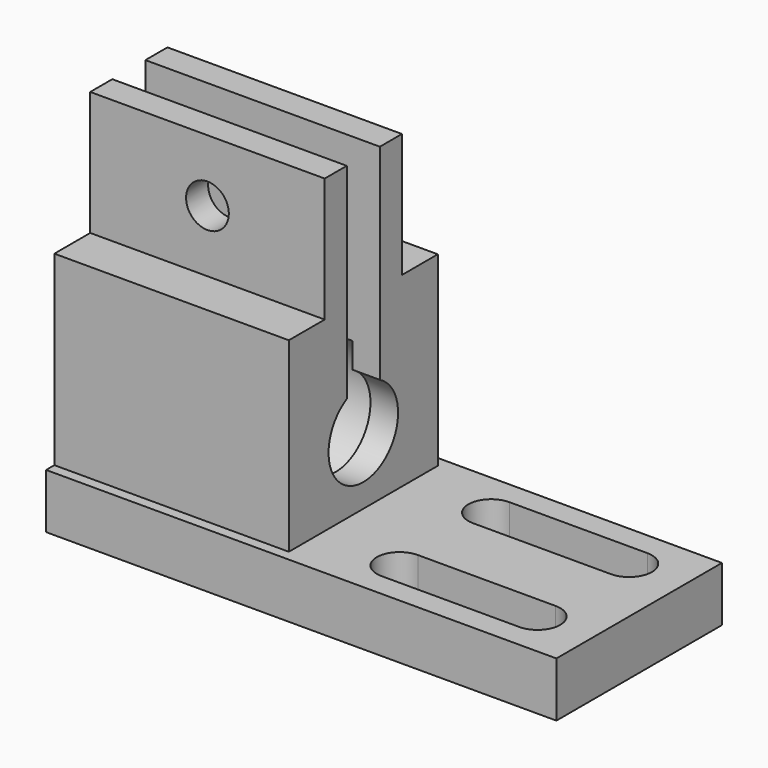
from build123d import *

# Parameters (mm, degrees)
F0_W      = 37
F0_H      = 15
F1_DEPTH  = 3.97
F2_W      = 17
F2_H      = 13.5
F3_DEPTH  = 13.5
F4_R      = 4.85
F5_DEPTH  = 15
F6_R      = 3.15
F7_DEPTH  = 22.001
F8_W      = 17
F8_H      = 7
F9_DEPTH  = 9
F10_R     = 1.55
F11_DEPTH = 11.001
F12_W     = 17
F12_H     = 3
F13_DEPTH = 17.5
F15_DEPTH = 3.971


with BuildPart() as f1:
    # F0 (on Top) → F1 (new body)
    with BuildSketch(Plane.XY):
        Rectangle(F0_W, F0_H)
    extrude(amount=F1_DEPTH)

    # F2 (on face) → F3 (join)
    with BuildSketch(Plane.XY.offset(3.97)):
        with Locations((-10, 0)):
            Rectangle(F2_W, F2_H)
    extrude(amount=F3_DEPTH)

    # F4 (on face) → F5 (cut)
    with BuildSketch(Plane(origin=(-18.5, 0, 0), x_dir=(0, -1, 0), z_dir=(-1, 0, 0))):
        with Locations((0, 8.82)):
            Circle(F4_R)
    extrude(amount=-F5_DEPTH, mode=Mode.SUBTRACT)

    # F6 (on face) → F7 (cut, through all)
    with BuildSketch(Plane(origin=(-3.5, 0, 0), x_dir=(0, -1, 0), z_dir=(-1, 0, 0))):
        with Locations((0, 8.82)):
            Circle(F6_R)
    extrude(amount=-F7_DEPTH, mode=Mode.SUBTRACT)

    # F8 (on face) → F9 (join)
    with BuildSketch(Plane.XY.offset(17.47)):
        with Locations((-10, 0)):
            Rectangle(F8_W, F8_H)
    extrude(amount=F9_DEPTH)

    # F10 (on face) → F11 (cut, through all)
    with BuildSketch(Plane.XZ.offset(3.5)):
        with Locations((-10, 21.97)):
            Circle(F10_R)
    extrude(amount=-F11_DEPTH, mode=Mode.SUBTRACT)

    # F12 (on face) → F13 (cut)
    with BuildSketch(Plane.XY.offset(26.47)):
        with Locations((-10, 0)):
            Rectangle(F12_W, F12_H)
    extrude(amount=-F13_DEPTH, mode=Mode.SUBTRACT)

    # F14 (on face) → F15 (cut, through all)
    with BuildSketch(Plane.XY.offset(3.97)):
        with BuildLine():
            Line((14.45, 5.8), (4.45, 5.8))
            ThreePointArc((4.45, 5.8), (2.8, 4.15), (4.45, 2.5))
            Line((4.45, 2.5), (14.45, 2.5))
            ThreePointArc((14.45, 2.5), (16.1, 4.15), (14.45, 5.8))
        make_face()
        with BuildLine():
            Line((14.45, -2.5), (4.45, -2.5))
            ThreePointArc((4.45, -2.5), (2.8, -4.15), (4.45, -5.8))
            Line((4.45, -5.8), (14.45, -5.8))
            ThreePointArc((14.45, -5.8), (16.1, -4.15), (14.45, -2.5))
        make_face()
    extrude(amount=-F15_DEPTH, mode=Mode.SUBTRACT)


solid = f1.part
